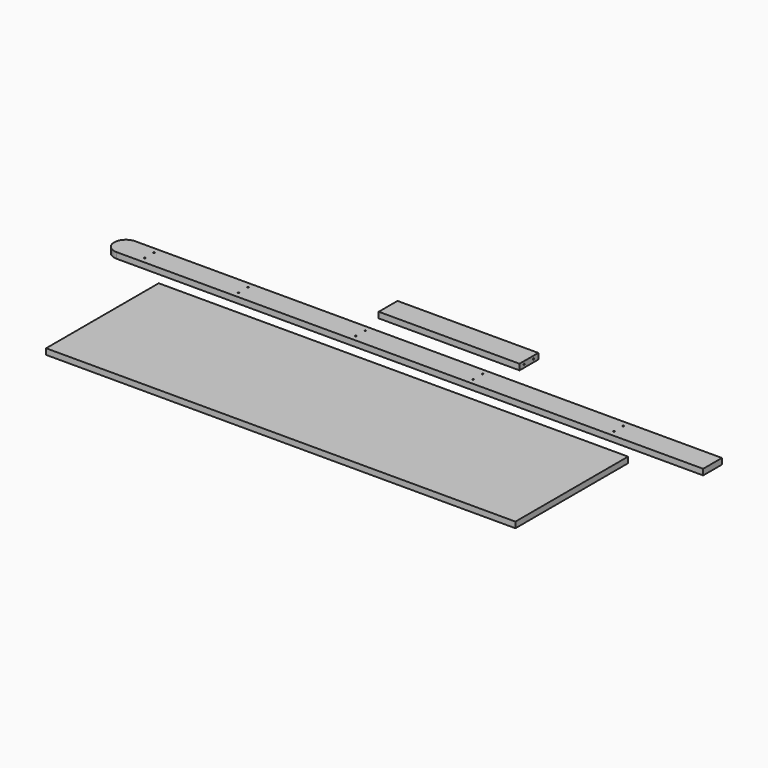
from build123d import *

# Parameters (mm, degrees)
F0_W      = 2500
F0_H      = 100
F0_R      = 3
F1_DEPTH  = 25
F2_W      = 600
F2_H      = 100
F3_DEPTH  = 25
F5_R      = 3
F6_DEPTH  = 25
F7_R      = 3
F8_DEPTH  = 25
F9_W      = 2000
F9_H      = 600
F10_DEPTH = 25


with BuildPart() as f1:
    # F0 (on Top) → F1 (new body)
    with BuildSketch(Plane.XY):
        Rectangle(F0_W, F0_H)
        with Locations((-1150, -25)):
            Circle(F0_R, mode=Mode.SUBTRACT)
        with Locations((-750, -25)):
            Circle(F0_R, mode=Mode.SUBTRACT)
        with Locations((-250, -25)):
            Circle(F0_R, mode=Mode.SUBTRACT)
        with Locations((250, -25)):
            Circle(F0_R, mode=Mode.SUBTRACT)
        with Locations((850, -25)):
            Circle(F0_R, mode=Mode.SUBTRACT)
        with Locations((-1150, 25)):
            Circle(F0_R, mode=Mode.SUBTRACT)
        with Locations((-750, 25)):
            Circle(F0_R, mode=Mode.SUBTRACT)
        with Locations((-250, 25)):
            Circle(F0_R, mode=Mode.SUBTRACT)
        with Locations((250, 25)):
            Circle(F0_R, mode=Mode.SUBTRACT)
        with Locations((850, 25)):
            Circle(F0_R, mode=Mode.SUBTRACT)
        with BuildLine():
            ThreePointArc((-1250, 50), (-1300, 0), (-1250, -50))
            Line((-1250, -50), (-1250, 50))
        make_face()
    extrude(amount=F1_DEPTH)


with BuildPart() as f3:
    # F2 (on Top) → F3 (new body)
    with BuildSketch(Plane.XY):
        with Locations((0, 209.42659)):
            Rectangle(F2_W, F2_H)
    extrude(amount=F3_DEPTH)

    # F5 (on face) → F6 (cut)
    with BuildSketch(Plane(origin=(-300, 0, 0), x_dir=(0, -1, 0), z_dir=(-1, 0, 0))):
        with Locations((-234.42659, 12.5)):
            Circle(F5_R)
        with Locations((-184.42659, 12.5)):
            Circle(F5_R)
    extrude(amount=-F6_DEPTH, mode=Mode.SUBTRACT)

    # F7 (on face) → F8 (cut)
    with BuildSketch(Plane.YZ.offset(300)):
        with Locations((184.42659, 12.5)):
            Circle(F7_R)
        with Locations((234.42659, 12.5)):
            Circle(F7_R)
    extrude(amount=-F8_DEPTH, mode=Mode.SUBTRACT)


with BuildPart() as f10:
    # F9 (on Top) → F10 (new body)
    with BuildSketch(Plane.XY):
        with Locations((0, -437.558951)):
            Rectangle(F9_W, F9_H)
    extrude(amount=F10_DEPTH)


solid = Compound([f1.part, f3.part, f10.part])
